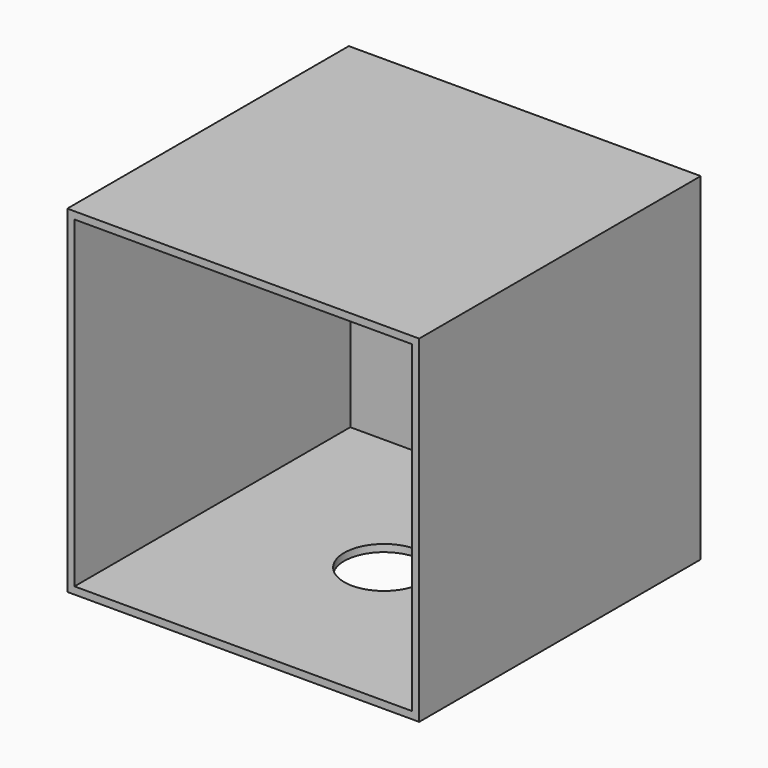
from build123d import *

# Parameters (mm, degrees)
F0_W     = 146
F0_H     = 146
F0_R     = 16.5
F1_DEPTH = 140
F2_T     = -3
F3_DEPTH = 3


with BuildPart() as f1:
    # F0 (on Top) → F1 (new body)
    with BuildSketch(Plane.XY):
        Rectangle(F0_W, F0_H)
        Circle(F0_R, mode=Mode.SUBTRACT)
        Circle(F0_R)
    extrude(amount=F1_DEPTH)

    # F2
    f2_openings = [f1.faces().sort_by_distance(p)[0] for p in [
        (0, -73, 70),
    ]]
    offset(amount=F2_T, openings=f2_openings)

    # F0 (on Top) → F3 (cut)
    with BuildSketch(Plane.XY):
        Circle(F0_R)
    extrude(amount=F3_DEPTH, mode=Mode.SUBTRACT)


solid = f1.part
